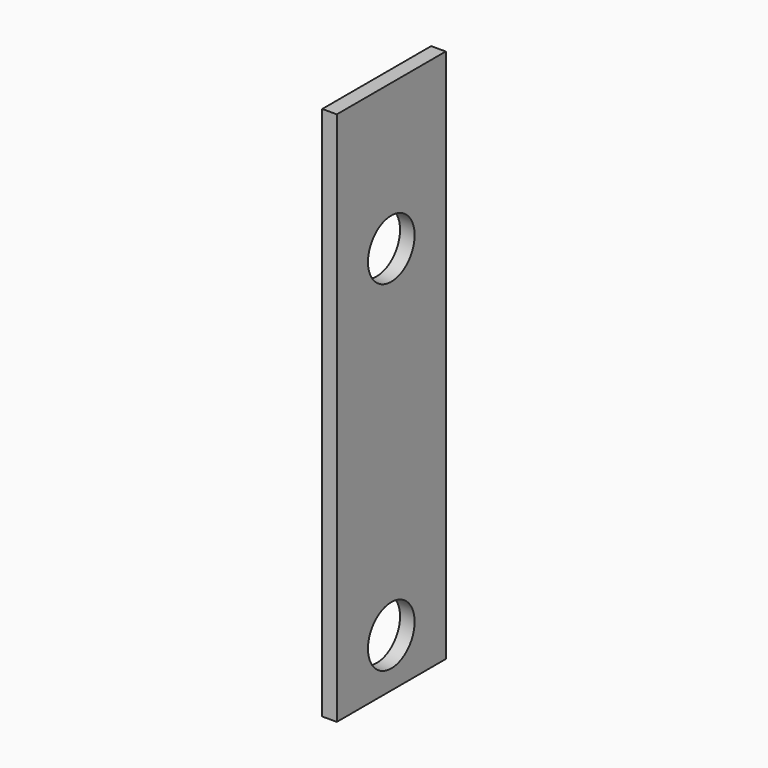
from build123d import *

# Parameters (mm, degrees)
F0_W     = 28
F0_H     = 110
F0_R     = 6
F1_DEPTH = 3


with BuildPart() as f1:
    # F0 (on Right) → F1 (new body)
    with BuildSketch(Plane.YZ):
        Rectangle(F0_W, F0_H)
        with Locations((0, -45)):
            Circle(F0_R, mode=Mode.SUBTRACT)
        with Locations((0, 25)):
            Circle(F0_R, mode=Mode.SUBTRACT)
    extrude(amount=F1_DEPTH)


solid = f1.part
